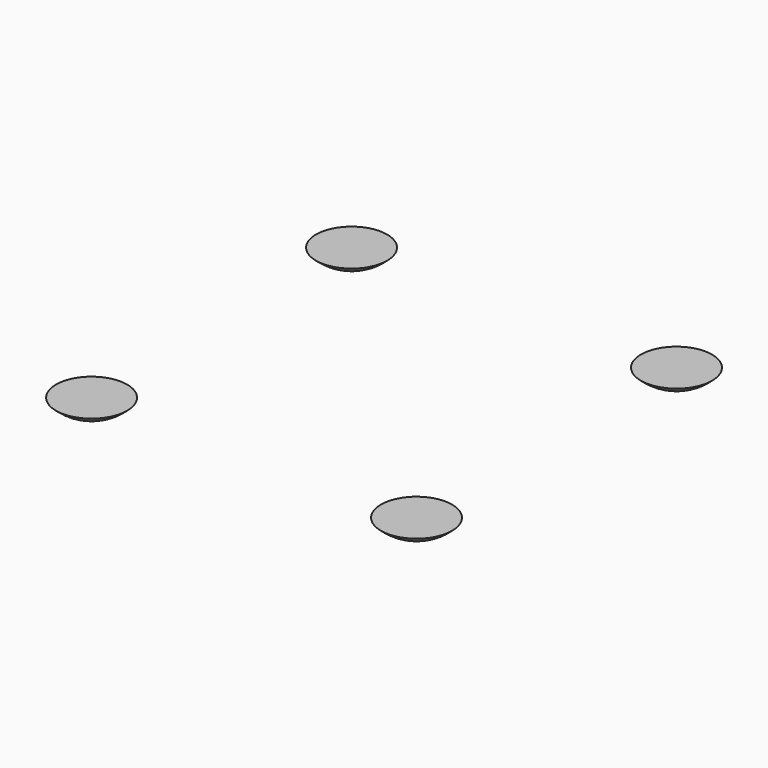
from build123d import *

# Parameters (mm, degrees)
ARRAY_X_COUNT = 2
ARRAY_X_PITCH = 11.43
ARRAY_Y_COUNT = 2
ARRAY_Y_PITCH = 11.43


with BuildPart() as part:
    # Sketch005 → Revolution (revolve)
    with BuildSketch(Plane.XZ):
        with BuildLine():
            Line((0, 0.51), (1.25, 0.51))
            ThreePointArc((0, 0), (0.675019, 0.132406), (1.25, 0.51))
            Line((0, 0.51), (0, 0))
        make_face()
    revolve(axis=Axis((0, 0, 0), (0, 0, 1)))

    # Array X: part ×2


with BuildPart() as part_1:
    add(part.part)
    with Locations(*[(i * ARRAY_X_PITCH, 0, 0) for i in range(1, ARRAY_X_COUNT)]):
        add(part.part)

    # Array Y: part ×2


with BuildPart() as part_2:
    add(part_1.part)
    with Locations(*[(0, -i * ARRAY_Y_PITCH, 0) for i in range(1, ARRAY_Y_COUNT)]):
        add(part_1.part)


with BuildPart() as part_3:
    # Array placement: moved
    add(part_2.part.moved(Location((3.81, -3.81, 0))))


solid = part_3.part
